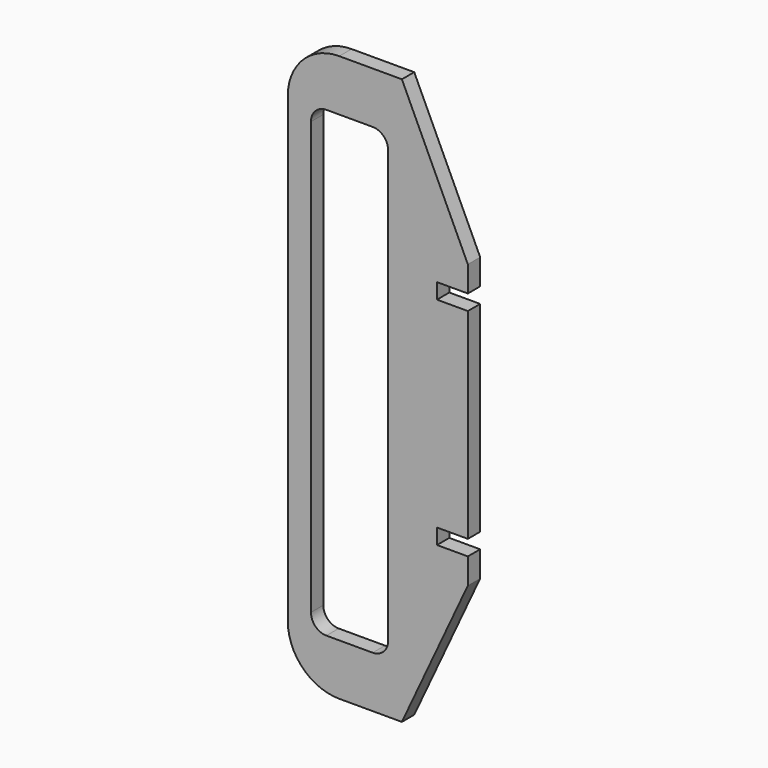
from build123d import *

# Parameters (mm, degrees)
F1_DEPTH = 3


with BuildPart() as f1:
    # F0 (on Front) → F1 (new body)
    with BuildSketch(Plane.XZ):
        with BuildLine():
            ThreePointArc((-37.269928, 56.85529), (-44.340996, 53.926358), (-47.269928, 46.85529))
            Line((-47.269928, 46.85529), (-47.269928, 1.85529))
            Line((-47.269928, 1.85529), (-47.269928, -43.14471))
            ThreePointArc((-47.269928, -43.14471), (-44.340996, -50.215777), (-37.269928, -53.14471))
            Line((-37.269928, -53.14471), (-25.093389, -53.14471))
            Line((-25.093389, -53.14471), (-12.269928, -25.64471))
            Line((-12.269928, -25.64471), (-12.269928, -20.64471))
            Line((-12.269928, -20.64471), (-18.269928, -20.64471))
            Line((-18.269928, -20.64471), (-18.269928, -17.64471))
            Line((-18.269928, -17.64471), (-12.269928, -17.64471))
            Line((-12.269928, -17.64471), (-12.269928, 1.85529))
            Line((-12.269928, 1.85529), (-12.269928, 21.35529))
            Line((-12.269928, 21.35529), (-18.269928, 21.35529))
            Line((-18.269928, 21.35529), (-18.269928, 24.35529))
            Line((-18.269928, 24.35529), (-12.269928, 24.35529))
            Line((-12.269928, 24.35529), (-12.269928, 29.35529))
            Line((-12.269928, 29.35529), (-25.093389, 56.85529))
            Line((-25.093389, 56.85529), (-37.269928, 56.85529))
        make_face()
        with BuildLine():
            ThreePointArc((-42.769928, 43.85529), (-41.891248, 45.976611), (-39.769928, 46.85529))
            Line((-39.769928, 46.85529), (-30.769928, 46.85529))
            ThreePointArc((-30.769928, 46.85529), (-28.648608, 45.976611), (-27.769928, 43.85529))
            Line((-27.769928, 43.85529), (-27.769928, 1.85529))
            Line((-27.769928, 1.85529), (-27.769928, -40.14471))
            ThreePointArc((-27.769928, -40.14471), (-28.648608, -42.26603), (-30.769928, -43.14471))
            Line((-30.769928, -43.14471), (-39.769928, -43.14471))
            ThreePointArc((-39.769928, -43.14471), (-41.891248, -42.26603), (-42.769928, -40.14471))
            Line((-42.769928, -40.14471), (-42.769928, 1.85529))
            Line((-42.769928, 1.85529), (-42.769928, 43.85529))
        make_face(mode=Mode.SUBTRACT)
    extrude(amount=F1_DEPTH)


solid = f1.part
